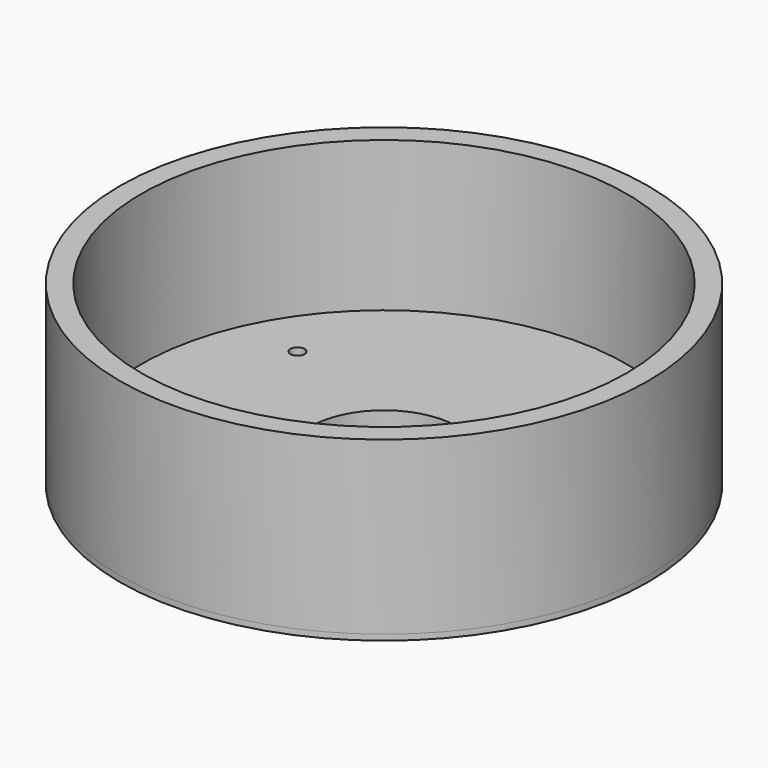
from build123d import *

# Parameters (mm, degrees)
F2_R     = 18.5
F2_R_2   = 17
F2_R_3   = 5.15
F2_R_4   = 0.5
F3_DEPTH = 0.4
F4_DEPTH = 1.5
F5_DEPTH = 12


with BuildPart() as f3:
    # F2 (on Top) → F3 (new body)
    with BuildSketch(Plane.XY):
        Circle(F2_R)
        Circle(F2_R_2, mode=Mode.SUBTRACT)
        Circle(F2_R_2)
        with Locations((0, -11)):
            Circle(F2_R_3, mode=Mode.SUBTRACT)
        with Locations((-11.2583302492, 6.5)):
            Circle(F2_R_4, mode=Mode.SUBTRACT)
        Circle(F2_R_3, mode=Mode.SUBTRACT)
        with Locations((11.2583302492, 6.5)):
            Circle(F2_R_4, mode=Mode.SUBTRACT)
        with Locations((0, 11)):
            Circle(F2_R_3, mode=Mode.SUBTRACT)
        with Locations((0, -11)):
            Circle(F2_R_3)
        with Locations((0, -13)):
            Circle(F2_R_4, mode=Mode.SUBTRACT)
        Circle(F2_R_3)
        with Locations((0, 11)):
            Circle(F2_R_3)
    extrude(amount=-F3_DEPTH)

    # F2 (on Top) → F4 (join)
    with BuildSketch(Plane.XY):
        Circle(F2_R_2)
        with Locations((0, -11)):
            Circle(F2_R_3, mode=Mode.SUBTRACT)
        with Locations((-11.2583302492, 6.5)):
            Circle(F2_R_4, mode=Mode.SUBTRACT)
        Circle(F2_R_3, mode=Mode.SUBTRACT)
        with Locations((11.2583302492, 6.5)):
            Circle(F2_R_4, mode=Mode.SUBTRACT)
        with Locations((0, 11)):
            Circle(F2_R_3, mode=Mode.SUBTRACT)
        with Locations((0, 11)):
            Circle(F2_R_3)
        with Locations((0, -11)):
            Circle(F2_R_3)
        with Locations((0, -13)):
            Circle(F2_R_4, mode=Mode.SUBTRACT)
    extrude(amount=F4_DEPTH)

    # F2 (on Top) → F5 (join)
    with BuildSketch(Plane.XY):
        Circle(F2_R)
        Circle(F2_R_2, mode=Mode.SUBTRACT)
    extrude(amount=F5_DEPTH)


solid = f3.part
